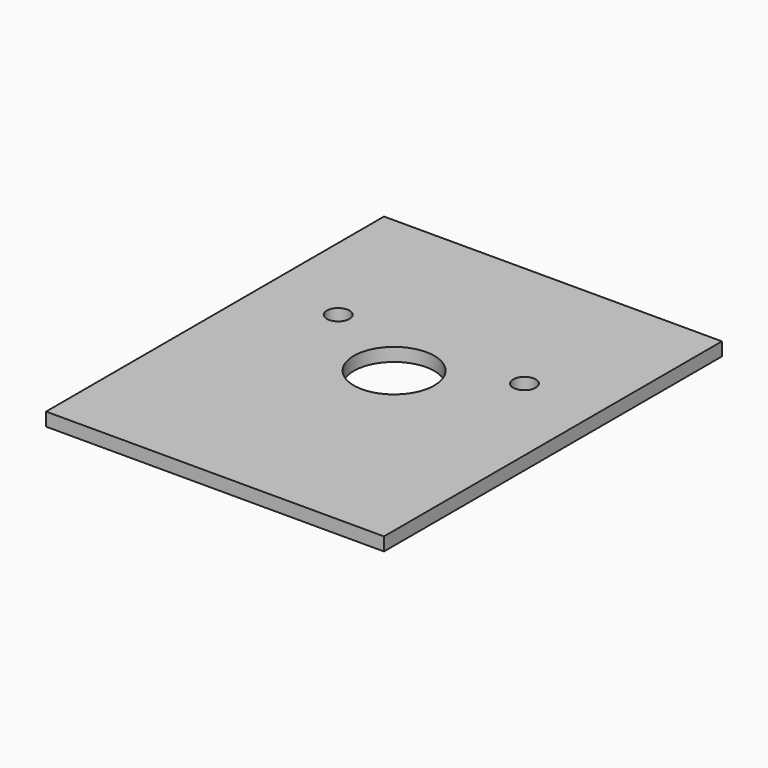
from build123d import *

# Parameters (mm, degrees)
F0_W     = 50.8
F0_H     = 63.5
F0_R     = 1.7
F0_R_2   = 6.05
F1_DEPTH = 2


with BuildPart() as f1:
    # F0 (on Top) → F1 (new body)
    with BuildSketch(Plane.XY):
        Rectangle(F0_W, F0_H)
        with Locations((-14, 8.89)):
            Circle(F0_R, mode=Mode.SUBTRACT)
        with Locations((0, 1.89)):
            Circle(F0_R_2, mode=Mode.SUBTRACT)
        with Locations((14, 8.89)):
            Circle(F0_R, mode=Mode.SUBTRACT)
    extrude(amount=F1_DEPTH)


solid = f1.part
